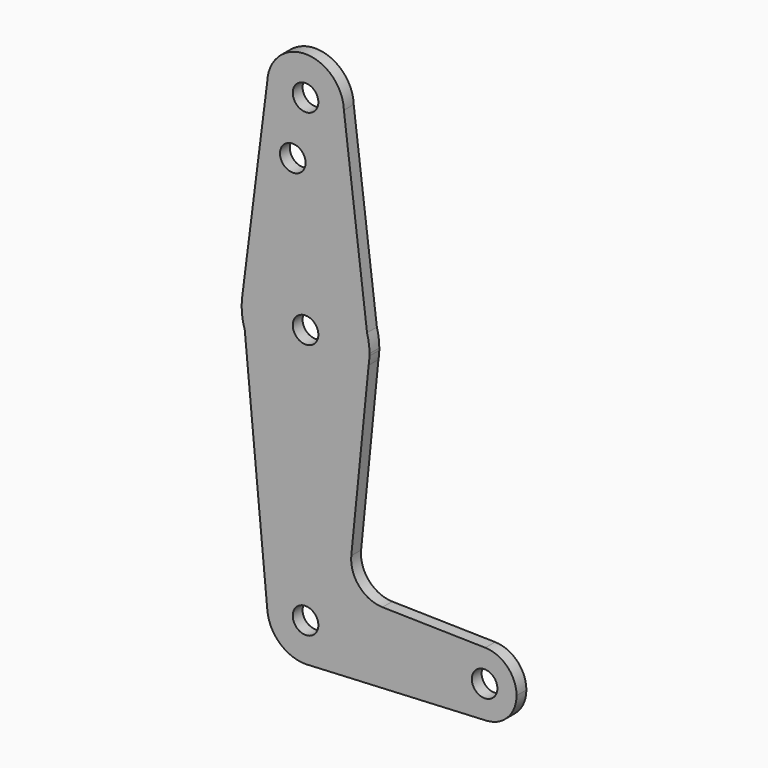
from build123d import *

# Parameters (mm, degrees)
F0_R     = 3.175
F1_DEPTH = 3.048


with BuildPart() as f1:
    # F0 (on Front) → F1 (new body)
    with BuildSketch(Plane.XZ):
        with BuildLine():
            Line((-15.0971930232, 2.286006038), (-15.7488979406, 9.1911593723))
            ThreePointArc((-15.7488979406, 9.1911593723), (-15.8047656604, 5.7025561457), (-15.0971930232, 2.286006038))
        make_face()
        with BuildLine():
            ThreePointArc((15.6565859768, 4.5699039156), (15.7963036779, 5.6154635657), (15.8662764967, 6.667993766))
            Line((15.8662764967, 6.667993766), (15.6565859768, 4.5699039156))
        make_face()
        with BuildLine():
            ThreePointArc((15.875, 7.1942020223), (15.7222669205, 9.3910060372), (15.2670065663, 11.545539231))
            Line((15.2670065663, 11.545539231), (15.8662764967, 6.667993766))
            ThreePointArc((15.8662764967, 6.667993766), (15.8728189744, 6.931061742), (15.875, 7.1942020223))
        make_face()
        with BuildLine():
            Line((0.9422584003, -65.7840770466), (0, -65.8307979777))
            ThreePointArc((0, -65.8307979777), (0.4717079972, -65.8191105746), (0.9422584003, -65.7840770466))
        make_face()
        with BuildLine():
            ThreePointArc((-9.5194473373, 58.3193902642), (-0.1626178225, 48.4705902891), (9.525, 57.9942020223))
            ThreePointArc((9.525, 57.9942020223), (9.5235349045, 58.1612586655), (9.5191400689, 58.3282639168))
            ThreePointArc((9.5191400689, 58.3282639168), (-0.0044394855, 67.5192009877), (-9.5194473373, 58.3193902642))
        make_face()
        with Locations((0, 57.9942020223)):
            Circle(F0_R, mode=Mode.SUBTRACT)
        with BuildLine():
            ThreePointArc((52.3875, -55.6795381521), (50.122893506, -50.1277649651), (44.6212800266, -47.7438863576))
            ThreePointArc((44.6212800266, -47.7438863576), (36.5132758164, -55.7905133022), (44.8430899976, -63.6072986495))
            ThreePointArc((44.8430899976, -63.6072986495), (50.1999590479, -61.151455293), (52.3875, -55.6795381521))
        make_face()
        with Locations((44.45, -55.6795381521)):
            Circle(F0_R, mode=Mode.SUBTRACT)
        with BuildLine():
            ThreePointArc((15.6565859768, 4.5699039156), (1.1757029803, -8.6372018164), (-15.0971930232, 2.286006038))
            Line((-15.0971930232, 2.286006038), (-9.4828593962, -57.2007855037))
            ThreePointArc((-9.4828593962, -57.2007855037), (-0.4479895373, -46.7913389614), (9.525, -56.3057979777))
            ThreePointArc((9.525, -56.3057979777), (7.0604757723, -62.699177903), (0.9422584003, -65.7840770466))
            Line((0.9422584003, -65.7840770466), (44.8430899976, -63.6072986495))
            ThreePointArc((44.8430899976, -63.6072986495), (36.5132758164, -55.7905133022), (44.6212800266, -47.7438863576))
            Line((44.6212800266, -47.7438863576), (19.0958622025, -47.1929556519))
            ThreePointArc((19.0958622025, -47.1929556519), (13.3156506238, -44.5154858349), (11.3566273953, -38.4539745955))
            Line((11.3566273953, -38.4539745955), (15.6565859768, 4.5699039156))
        make_face()
        with BuildLine():
            ThreePointArc((9.525, -56.3057979777), (-0.4479895373, -46.7913389614), (-9.4828593962, -57.2007855037))
            ThreePointArc((-9.4828593962, -57.2007855037), (-6.4109620501, -63.3503129073), (0, -65.8307979777))
            Line((0, -65.8307979777), (0.9422584003, -65.7840770466))
            ThreePointArc((0.9422584003, -65.7840770466), (7.0604757723, -62.699177903), (9.525, -56.3057979777))
        make_face()
        with Locations((0, -56.3057979777)):
            Circle(F0_R, mode=Mode.SUBTRACT)
        with BuildLine():
            Line((15.8662764967, 6.667993766), (15.2670065663, 11.545539231))
            ThreePointArc((15.2670065663, 11.545539231), (-1.2015951705, 23.0236617113), (-15.7488979406, 9.1911593723))
            Line((-15.7488979406, 9.1911593723), (-15.0971930232, 2.286006038))
            ThreePointArc((-15.0971930232, 2.286006038), (1.1757029803, -8.6372018164), (15.6565859768, 4.5699039156))
            Line((15.6565859768, 4.5699039156), (15.8662764967, 6.667993766))
        make_face()
        with Locations((0, 7.1942020223)):
            Circle(F0_R, mode=Mode.SUBTRACT)
        with BuildLine():
            ThreePointArc((9.5191400689, 58.3282639168), (9.5235349045, 58.1612586655), (9.525, 57.9942020223))
            ThreePointArc((9.525, 57.9942020223), (-0.1626178225, 48.4705902891), (-9.5194473373, 58.3193902642))
            Line((-9.5194473373, 58.3193902642), (-15.7488979406, 9.1911593723))
            ThreePointArc((-15.7488979406, 9.1911593723), (-1.2015951705, 23.0236617113), (15.2670065663, 11.545539231))
            Line((15.2670065663, 11.545539231), (9.5191400689, 58.3282639168))
        make_face()
        with Locations((-3.175, 43.7194020223)):
            Circle(F0_R, mode=Mode.SUBTRACT)
    extrude(amount=F1_DEPTH)


solid = f1.part
